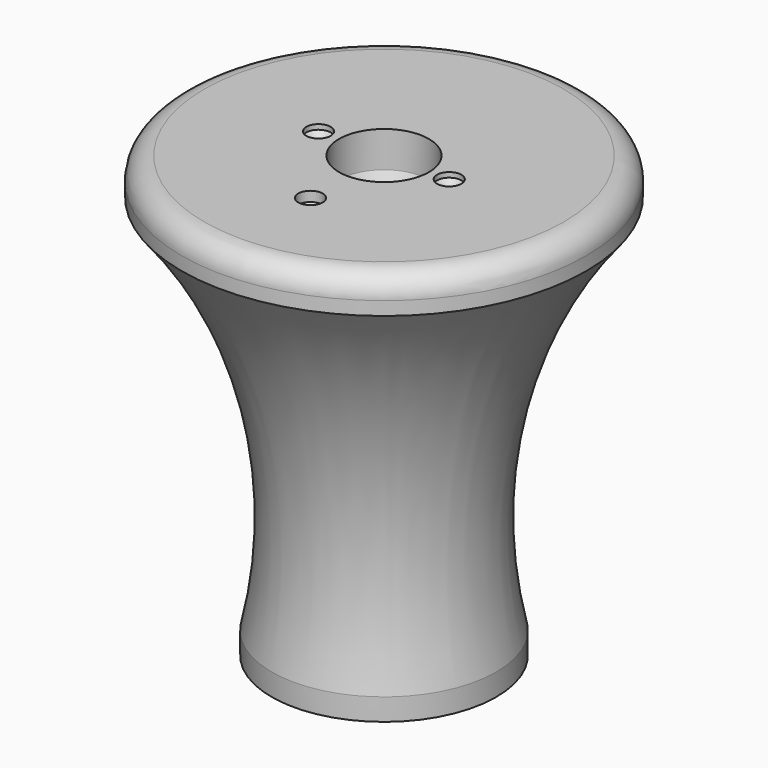
from build123d import *

# Parameters (mm, degrees)
F3_DEPTH  = 4.9
F4_R      = 20
F4_R_2    = 4
F5_DEPTH  = 4.9
F6_DEPTH  = 8
F7_R      = 5
F9_D      = 5.43
F9_DEPTH  = 1.1
F9_TIP    = 1.6313365807
F10_D     = 5.43
F10_DEPTH = 2.2
F10_TIP   = 1.6313365807
F11_R     = 10.5
F12_DEPTH = 5
F14_DEPTH = 5


with BuildPart() as f2:
    # F0 (on Front) → F2 (revolve)
    with BuildSketch(Plane.XZ):
        with BuildLine():
            Line((4, 0), (25, 0))
            ThreePointArc((25, 0), (25.0633115181, 44.8380443487), (45, 85))
            Line((45, 85), (10, 85))
            ThreePointArc((10, 85), (5.5209994492, 72.8549601322), (4, 60))
            Line((4, 60), (4, 0))
        make_face()
    revolve(axis=Axis((0, 0, 25.1682717353), (0, 0, 1)))

    # F3 (add): a face of the model
    f3_faces = [f2.faces().sort_by_distance(p)[0] for p in [
        (-4.7071067812, 0, 0),
    ]]
    extrude(f3_faces, amount=F3_DEPTH)

    # F4 (on face) → F5 (cut)
    with BuildSketch(Plane(origin=(0, 0, -4.9), x_dir=(1, 0, 0), z_dir=(0, 0, -1))):
        Circle(F4_R)
        Circle(F4_R_2, mode=Mode.SUBTRACT)
    extrude(amount=-F5_DEPTH, mode=Mode.SUBTRACT)

    # F6 (add): a face of the model
    f6_faces = [f2.faces().sort_by_distance(p)[0] for p in [
        (-43.7272077939, 0, 85),
    ]]
    extrude(f6_faces, amount=F6_DEPTH)

    # F7
    f7_edges = [f2.edges().sort_by_distance(p)[0] for p in [
        (-45, 0, 93),
    ]]
    fillet(f7_edges, radius=F7_R)

    # F9
    with Locations(Plane.XY.offset(93)):
        with Locations((14.426644952, 0.1037907432), (-14.573297048, 0)):
            Hole(F9_D / 2, depth=F9_DEPTH)
            with Locations((0, 0, -(F9_DEPTH + F9_TIP / 2))):  # 118° drill point
                Cone(0, F9_D / 2, F9_TIP, mode=Mode.SUBTRACT)

    # F10
    with Locations(Plane.XY.offset(93)):
        with Locations((0, -20.4359735063)):
            Hole(F10_D / 2, depth=F10_DEPTH)
            with Locations((0, 0, -(F10_DEPTH + F10_TIP / 2))):  # 118° drill point
                Cone(0, F10_D / 2, F10_TIP, mode=Mode.SUBTRACT)

    # F11 (on Top) → F12 (cut)
    with BuildSketch(Plane.XY):
        Circle(F11_R)
    extrude(amount=F12_DEPTH, mode=Mode.SUBTRACT)

    # F13 (on face) → F14 (join)
    with BuildSketch(Plane(origin=(0, 0, -4.9), x_dir=(1, 0, 0), z_dir=(0, 0, -1))):
        with BuildLine():
            ThreePointArc((2.125, -24.9095237811), (0, -25), (-2.125, -24.9095237811))
            Line((-2.125, -24.9095237811), (-2.125, -26.9095237811))
            Line((-2.125, -26.9095237811), (2.125, -26.9095237811))
            Line((2.125, -26.9095237811), (2.125, -24.9095237811))
        make_face()
    extrude(amount=-F14_DEPTH)


solid = f2.part
